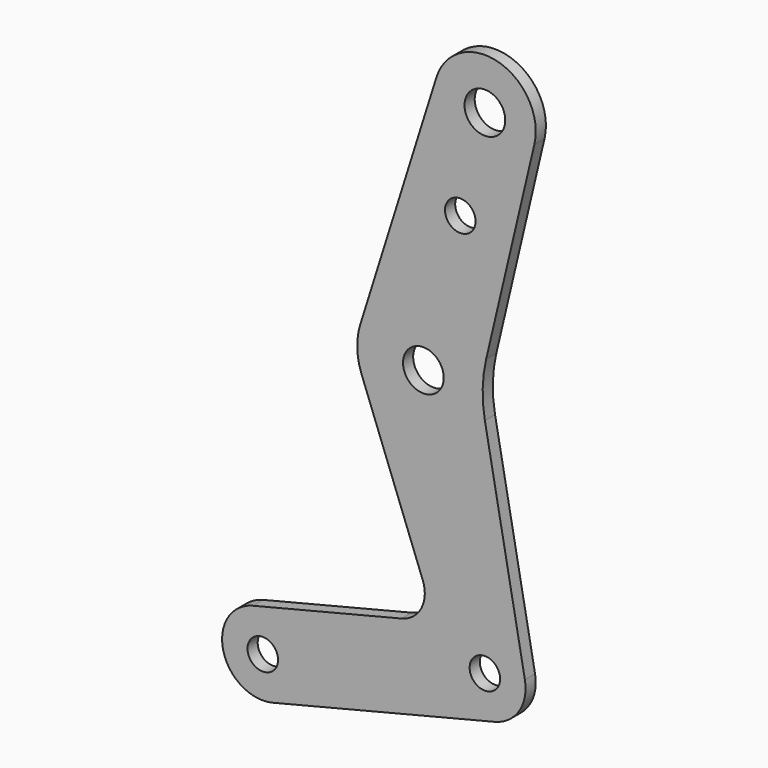
from build123d import *

# Parameters (mm, degrees)
F0_R     = 3
F0_R_2   = 4
F1_DEPTH = 2.5


with BuildPart() as f1:
    # F0 (on Front) → F1 (new body)
    with BuildSketch(Plane.XZ):
        with BuildLine():
            ThreePointArc((-45.598683, -3.124119), (-51.425673, -12.82186), (-41.727933, -18.648851))
            Line((-41.727933, -18.648851), (1.935375, -7.762366))
            ThreePointArc((1.935375, -7.762366), (6.729572, -4.325837), (7.865189, 1.462463))
            Line((7.865189, 1.462463), (0, 43.76178))
            ThreePointArc((0, 43.76178), (-0.430837, 49.130802), (0.253861, 54.473386))
            Line((0.253861, 54.473386), (9.733848, 94.737803))
            ThreePointArc((9.733848, 94.737803), (2.646173, 106.673108), (-9.540323, 100.02661))
            Line((-9.540323, 100.02661), (-24.498515, 52.410936))
            ThreePointArc((-24.498515, 52.410936), (-25.09064, 48.138234), (-24.25209, 43.90699))
            Line((-24.25209, 43.90699), (-12.20093, 12.114388))
            ThreePointArc((-12.20093, 12.114388), (-12.495151, 7.206057), (-16.359858, 4.165938))
            Line((-16.359858, 4.165938), (-45.598683, -3.124119))
        make_face()
        with Locations((-43.663308, -10.886485)):
            Circle(F0_R, mode=Mode.SUBTRACT)
        Circle(F0_R, mode=Mode.SUBTRACT)
        with Locations((-12.096095, 48.514786)):
            Circle(F0_R_2, mode=Mode.SUBTRACT)
        with Locations((-4.838438, 77.623658)):
            Circle(F0_R, mode=Mode.SUBTRACT)
        with Locations((0, 97.029573)):
            Circle(F0_R_2, mode=Mode.SUBTRACT)
    extrude(amount=F1_DEPTH)


solid = f1.part
